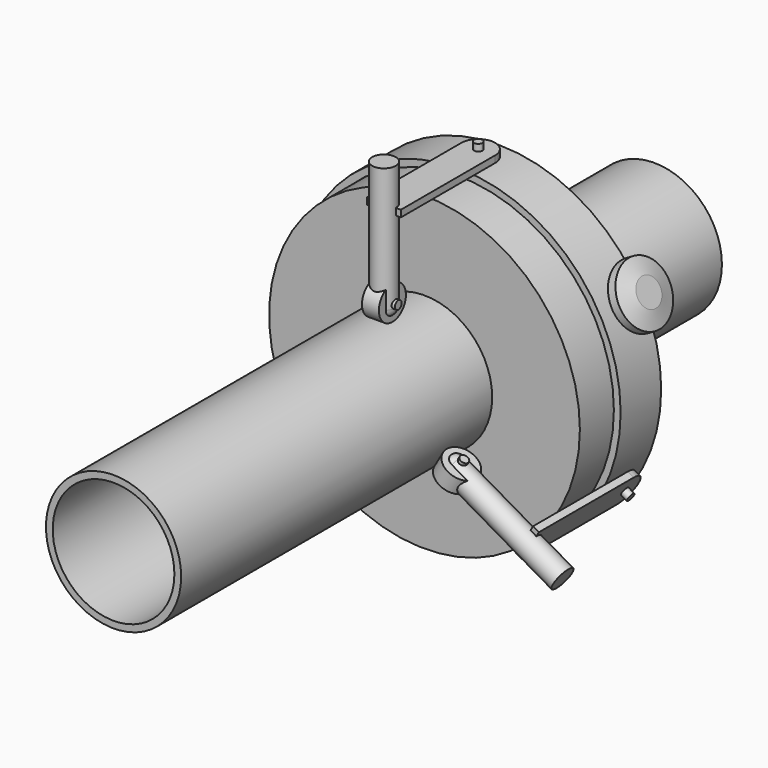
from build123d import *

# Parameters (mm, degrees)
F0_R           = 20
F0_R_2         = 18
F1_DEPTH       = 100
F2_R           = 5
F2_R_2         = 1.25
F3_DEPTH       = 2.5
F7_R           = 1.25
F8_DEPTH       = 12.5
F9_R           = 1.245
F10_DEPTH      = 4.25
F11_W          = 10
F11_H          = 2
F12_DEPTH      = 40
F13_R          = 1.25
F14_DEPTH      = 25
F15_COUNT      = 3
F17_R          = 48.0375252664
F17_R_2        = 46.0375252664
F18_DEPTH      = 7.5
F19_R          = 1.245
F20_DEPTH      = 2
F21_COUNT      = 3
F22_R          = 45.9761901759
F22_R_2        = 20.025
F23_DEPTH      = 20
F23_DEPTH_BACK = 7.5


with BuildPart() as f1:
    # F0 (on Front) → F1 (new body, symmetric)
    with BuildSketch(Plane.XZ):
        Circle(F0_R)
        Circle(F0_R_2, mode=Mode.SUBTRACT)
    extrude(amount=F1_DEPTH, both=True)


with BuildPart() as f3:
    # F2 (on Right) → F3 (new body, symmetric)
    with BuildSketch(Plane.YZ):
        with Locations((0, 25)):
            Circle(F2_R)
        with Locations((0, 25)):
            Circle(F2_R_2, mode=Mode.SUBTRACT)
    extrude(amount=F3_DEPTH, both=True)


with BuildPart() as f5:
    # F4 (on Right) → F5 (revolve)
    with BuildSketch(Plane.YZ):
        with BuildLine():
            Line((0, 61), (0, 21))
            Line((0, 21), (0.5, 21))
            ThreePointArc((0.5, 21), (2.6213203436, 21.8786796564), (3.5, 24))
            Line((3.5, 24), (3.5, 61))
            Line((3.5, 61), (0, 61))
        make_face()
    revolve(axis=Axis((0, 0, 41), (0, 0, 1)))

    # F6: cut F3
    add(f3.part, mode=Mode.SUBTRACT)

    # F7 (on Right) → F8 (cut, symmetric)
    with BuildSketch(Plane.YZ):
        with Locations((0, 25)):
            Circle(F7_R)
    extrude(amount=F8_DEPTH, both=True, mode=Mode.SUBTRACT)

    # F11 (on Front) → F12 (join)
    with BuildSketch(Plane.XZ):
        with Locations((0, 49.0375252664)):
            Rectangle(F11_W, F11_H)
    extrude(amount=-F12_DEPTH)

    # F13 (on face) → F14 (cut)
    with BuildSketch(Plane.XY.offset(50.0375252664)):
        with BuildLine():
            ThreePointArc((-5, 34.7152091563), (-0.0925838713, 39.8978670741), (5, 34.8970405757))
            Line((5, 34.8970405757), (6.1485516226, 34.8970405757))
            Line((6.1485516226, 34.8970405757), (6.1485516226, 41.5668860078))
            Line((6.1485516226, 41.5668860078), (-6.2505966052, 41.5668860078))
            Line((-6.2505966052, 41.5668860078), (-6.2505966052, 34.7152091563))
            Line((-6.2505966052, 34.7152091563), (-5, 34.7152091563))
        make_face()
        with Locations((-0.0016531333, 34.8970405757)):
            Circle(F13_R)
    extrude(amount=-F14_DEPTH, mode=Mode.SUBTRACT)


with BuildPart() as f10:
    # F9 (on Right) → F10 (new body, symmetric)
    with BuildSketch(Plane.YZ):
        with Locations((0, 25)):
            Circle(F9_R)
    extrude(amount=F10_DEPTH, both=True)


with BuildPart() as f15_1:
    # F15: instance of F3
    add(f3.part.rotate(Axis((0, -100, 0), (0, -1, 0)), 1 * 360 / F15_COUNT))


with BuildPart() as f15_2:
    # F15: instance of F3
    add(f3.part.rotate(Axis((0, -100, 0), (0, -1, 0)), 2 * 360 / F15_COUNT))


with BuildPart() as f15_3:
    # F15: instance of F5
    add(f5.part.rotate(Axis((0, -100, 0), (0, -1, 0)), 1 * 360 / F15_COUNT))


with BuildPart() as f15_4:
    # F15: instance of F5
    add(f5.part.rotate(Axis((0, -100, 0), (0, -1, 0)), 2 * 360 / F15_COUNT))


with BuildPart() as f15_5:
    # F15: instance of F10
    add(f10.part.rotate(Axis((0, -100, 0), (0, -1, 0)), 1 * 360 / F15_COUNT))


with BuildPart() as f15_6:
    # F15: instance of F10
    add(f10.part.rotate(Axis((0, -100, 0), (0, -1, 0)), 2 * 360 / F15_COUNT))


with BuildPart() as f18:
    # F17 (on offset) → F18 (new body, symmetric)
    with BuildSketch(Plane.XZ.offset(-35)):
        Circle(F17_R)
        Circle(F17_R_2, mode=Mode.SUBTRACT)
    extrude(amount=F18_DEPTH, both=True)


with BuildPart() as f20:
    # F19 (on face) → F20 (new body, symmetric)
    with BuildSketch(Plane.XY.offset(50.0375252664)):
        with Locations((-0.0016531333, 34.8970405757)):
            Circle(F19_R)
    extrude(amount=F20_DEPTH, both=True)


with BuildPart() as f21_1:
    # F21: instance of F20
    add(f20.part.rotate(Axis((0, 100, 0), (0, -1, 0)), 1 * 360 / F21_COUNT))


with BuildPart() as f21_2:
    # F21: instance of F20
    add(f20.part.rotate(Axis((0, 100, 0), (0, -1, 0)), 2 * 360 / F21_COUNT))


with BuildPart() as f23:
    # F22 (on offset) → F23 (new body, two sides)
    with BuildSketch(Plane.XZ.offset(-35)) as f23_sk:
        Circle(F22_R)
        Circle(F22_R_2, mode=Mode.SUBTRACT)
    extrude(amount=F23_DEPTH)
    extrude(f23_sk.sketch, amount=-F23_DEPTH_BACK)


with BuildPart() as f25:
    # F24 (on offset) → F25 (revolve)
    with BuildSketch(Plane.XZ.offset(-35)):
        Polygon((40.1086261315, 26.7623496949), (41.6030455443, 24.0195295441), (50.3945711581, 29.0953192238), (48.3471852351, 32.641495665), (44.5118546486, 36.1594595015), (42.290520561, 34.8769716681), (43.5886904597, 30.0665795803), (44.149447888, 29.0953192238), align=None)
    revolve(axis=Axis((45.9988083512, 35, 26.557424384), (0.8660254038, 0, 0.5)))


solid = Compound([f1.part, f3.part, f5.part, f10.part, f15_1.part, f15_2.part, f15_3.part, f15_4.part, f15_5.part, f15_6.part, f18.part, f20.part, f21_1.part, f21_2.part, f23.part, f25.part])
